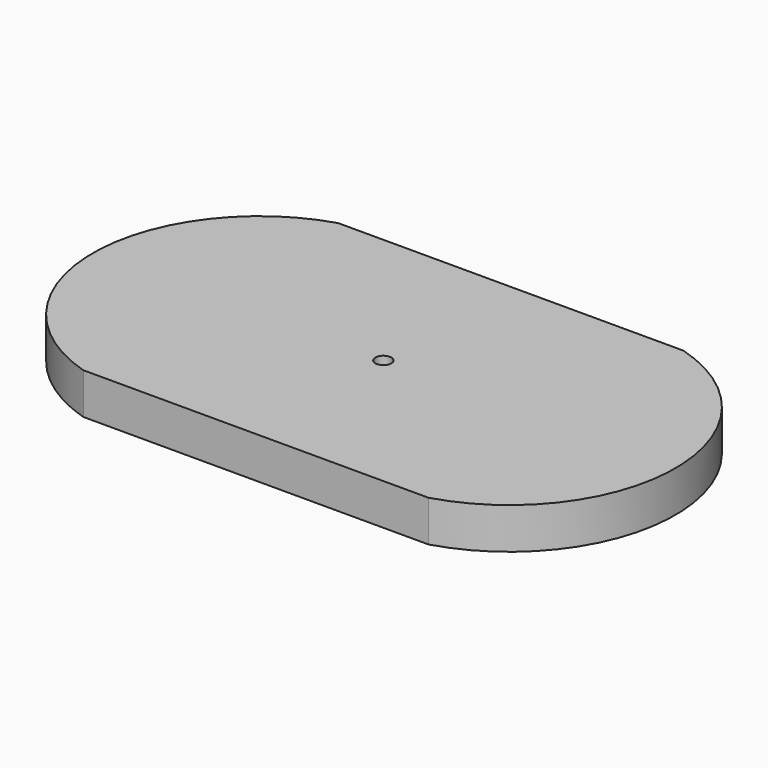
from build123d import *

# Parameters (mm, degrees)
F0_R     = 0.4
F1_DEPTH = 1
F2_R     = 0.3
F3_DEPTH = 0.55


with BuildPart() as f1:
    # F0 (on Top) → F1 (new body)
    with BuildSketch(Plane.XY):
        with BuildLine():
            Line((-6.5, -6), (6.5, -6))
            ThreePointArc((6.5, -6), (10.996041, 0), (6.5, 6))
            Line((6.5, 6), (-6.5, 6))
            ThreePointArc((-6.5, 6), (-10.943316, 0), (-6.5, -6))
        make_face()
        Circle(F0_R, mode=Mode.SUBTRACT)
    extrude(amount=F1_DEPTH)

    # F2 (on face) → F3 (join)
    with BuildSketch(Plane.XY.offset(1)):
        with BuildLine():
            Line((6.5, 6), (-6.5, 6))
            ThreePointArc((-6.5, 6), (-10.943316, 0), (-6.5, -6))
            Line((-6.5, -6), (6.5, -6))
            ThreePointArc((6.5, -6), (10.996041, 0), (6.5, 6))
        make_face()
        Circle(F2_R, mode=Mode.SUBTRACT)
    extrude(amount=F3_DEPTH)


solid = f1.part
